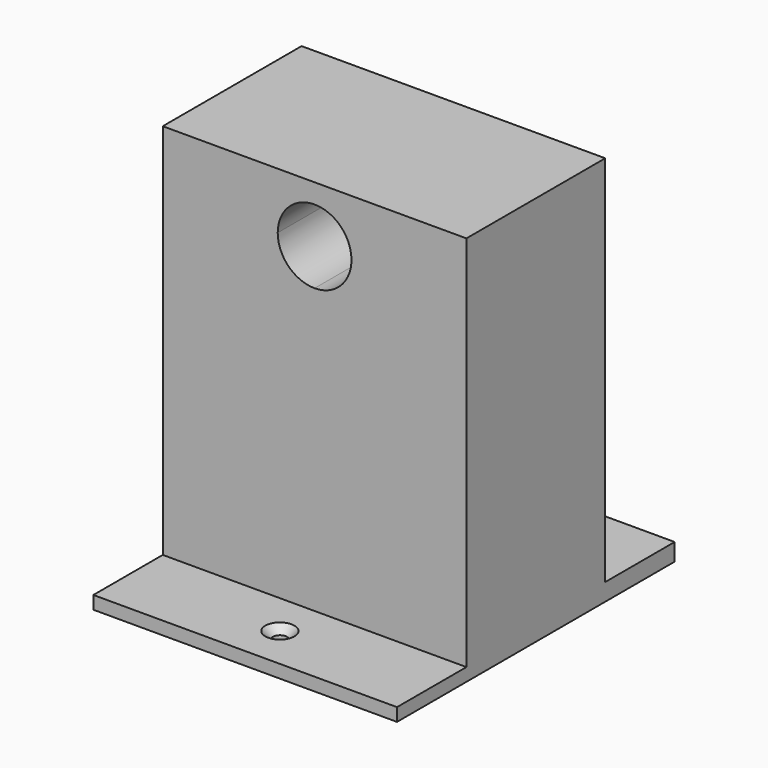
from build123d import *

# Parameters (mm, degrees)
F0_W            = 70
F0_H            = 40
F1_DEPTH        = 90
F3_DEPTH        = 40.001
F4_W            = 70
F4_H            = 3
F5_DEPTH        = 20
F6_W            = 70
F6_H            = 4
F7_DEPTH        = 20
F9_D            = 3.3
F9_DEPTH        = 12
F9_CSINK_D      = 6.72
F9_CSINK_ANGLE  = 90
F9_TIP          = 0.9914200214
F11_D           = 3.3
F11_DEPTH       = 12
F11_CSINK_D     = 6.72
F11_CSINK_ANGLE = 90
F11_TIP         = 0.9914200214


with BuildPart() as f1:
    # F0 (on Top) → F1 (new body)
    with BuildSketch(Plane.XY):
        Rectangle(F0_W, F0_H)
    extrude(amount=F1_DEPTH)

    # F2 (on face) → F3 (cut, through all)
    with BuildSketch(Plane(origin=(0, 20, 0), x_dir=(-1, 0, 0), z_dir=(0, 1, 0))):
        with BuildLine():
            ThreePointArc((0, 68.5), (6.0104076401, 70.9895923599), (8.5, 77))
            ThreePointArc((8.5, 77), (-6.0104076401, 83.0104076401), (0, 68.5))
        make_face()
    extrude(amount=-F3_DEPTH, mode=Mode.SUBTRACT)

    # F4 (on face) → F5 (join)
    with BuildSketch(Plane.XZ.offset(20)):
        with Locations((0, 1.5)):
            Rectangle(F4_W, F4_H)
    extrude(amount=F5_DEPTH)

    # F6 (on face) → F7 (join)
    with BuildSketch(Plane(origin=(0, 20, 0), x_dir=(-1, 0, 0), z_dir=(0, 1, 0))):
        with Locations((0, 2)):
            Rectangle(F6_W, F6_H)
    extrude(amount=F7_DEPTH)

    # F9
    with Locations(Plane.XY.offset(3)):
        with Locations((0, -30)):
            CounterSinkHole(F9_D / 2, F9_CSINK_D / 2, depth=F9_DEPTH, counter_sink_angle=F9_CSINK_ANGLE)
            with Locations((0, 0, -(F9_DEPTH + F9_TIP / 2))):  # 118° drill point
                Cone(0, F9_D / 2, F9_TIP, mode=Mode.SUBTRACT)

    # F11
    with Locations(Plane.XY.offset(4)):
        with Locations((0, 30)):
            CounterSinkHole(F11_D / 2, F11_CSINK_D / 2, depth=F11_DEPTH, counter_sink_angle=F11_CSINK_ANGLE)
            with Locations((0, 0, -(F11_DEPTH + F11_TIP / 2))):  # 118° drill point
                Cone(0, F11_D / 2, F11_TIP, mode=Mode.SUBTRACT)


solid = f1.part
